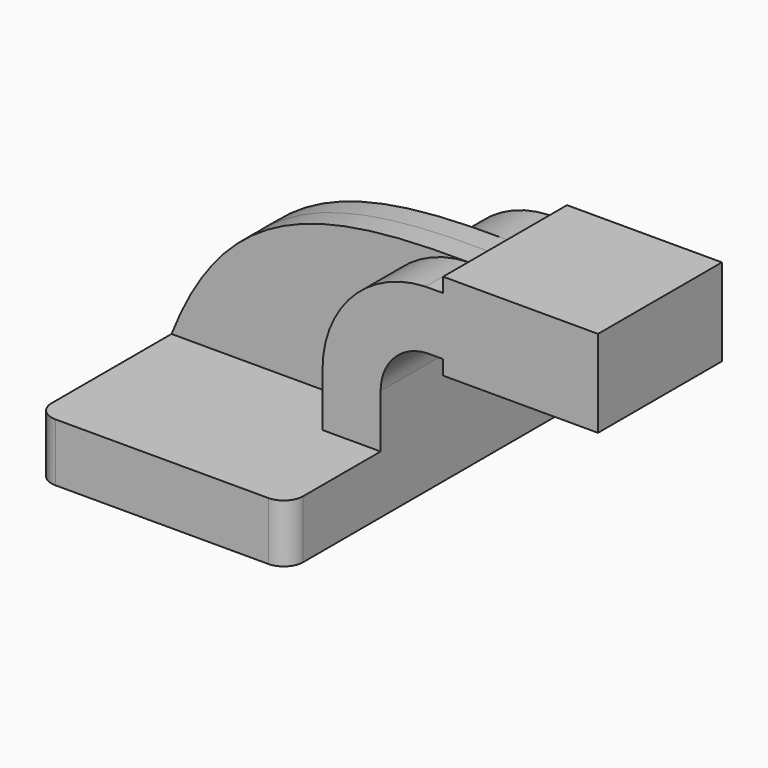
from build123d import *

# Parameters (mm, degrees)
F1_DEPTH = 63.5
F0_W     = 11.7803301271
F0_H     = 19.05
F2_DEPTH = 25.4
F3_DEPTH = 7.9375
F4_R     = 6.35


with BuildPart() as f1:
    # F0 (on Front) → F1 (new body, symmetric)
    with BuildSketch(Plane.XZ):
        Polygon((41.275, -9.525), (41.275, 9.525), (22.225, 9.525), (-41.275, 9.525), (-41.275, -9.525), align=None)
    extrude(amount=F1_DEPTH, both=True)

    # F0 (on Front) → F2 (join, symmetric)
    with BuildSketch(Plane.XZ):
        with BuildLine():
            Line((22.225, 9.525), (41.275, 9.525))
            Line((41.275, 9.525), (41.275, 27.0178999029))
            ThreePointArc((41.275, 27.0178999029), (45.6627686716, 37.9750501441), (56.4005611221, 42.8752))
            Line((56.4005611221, 42.8752), (61.7728, 42.8752))
            Line((61.7728, 42.8752), (61.7728, 61.9252))
            Line((61.7728, 61.9252), (56.0382334177, 61.9252))
            ThreePointArc((56.0382334177, 61.9252), (32.0643061399, 51.3173564515), (22.225, 27.0178999029))
            Line((22.225, 27.0178999029), (22.225, 9.525))
        make_face()
        Polygon((87.1728, 52.3875), (87.1728, 38.1), (112.5728, 38.1), (112.5728, 66.675), (87.1728, 66.675), align=None)
        Polygon((73.5531301271, 42.8752), (61.7728, 42.8752), (61.7728, 38.1), (87.1728, 38.1), (87.1728, 52.3875), (87.1728, 66.675), (61.7728, 66.675), (61.7728, 61.9252), (73.5531301271, 61.9252), align=None)
        with Locations((67.6629650635, 52.4002)):
            Rectangle(F0_W, F0_H)
        Polygon((73.5531301271, 42.8752), (61.7728, 42.8752), (61.7728, 38.1), (87.1728, 38.1), (87.1728, 52.3875), (87.1728, 66.675), (61.7728, 66.675), (61.7728, 61.9252), (73.5531301271, 61.9252), align=None)
    extrude(amount=F2_DEPTH, both=True)

    # F0 (on Front) → F3 (join, symmetric)
    with BuildSketch(Plane.XZ):
        with BuildLine():
            Line((-41.275, 9.525), (22.225, 9.525))
            Line((22.225, 9.525), (22.225, 27.0178999029))
            ThreePointArc((22.225, 27.0178999029), (32.0643061399, 51.3173564515), (56.0382334177, 61.9252))
            add(Edge.make_bspline(
                [(-41.275, 9.525), (-23.4800241888, 55.0344586372), (8.1693455577, 62.4129325151), (56.0382334177, 61.9252)],
                knots=[0, 0, 0, 0, 110.5244152133, 110.5244152133, 110.5244152133, 110.5244152133], degree=3))
        make_face()
    extrude(amount=F3_DEPTH, both=True)

    # F4
    f4_edges = [f1.edges().sort_by_distance(p)[0] for p in [
        (41.275, -63.5, 0),
        (41.275, 63.5, 0),
        (-41.275, -63.5, 0),
        (-41.275, 63.5, 0),
    ]]
    fillet(f4_edges, radius=F4_R)


solid = f1.part
